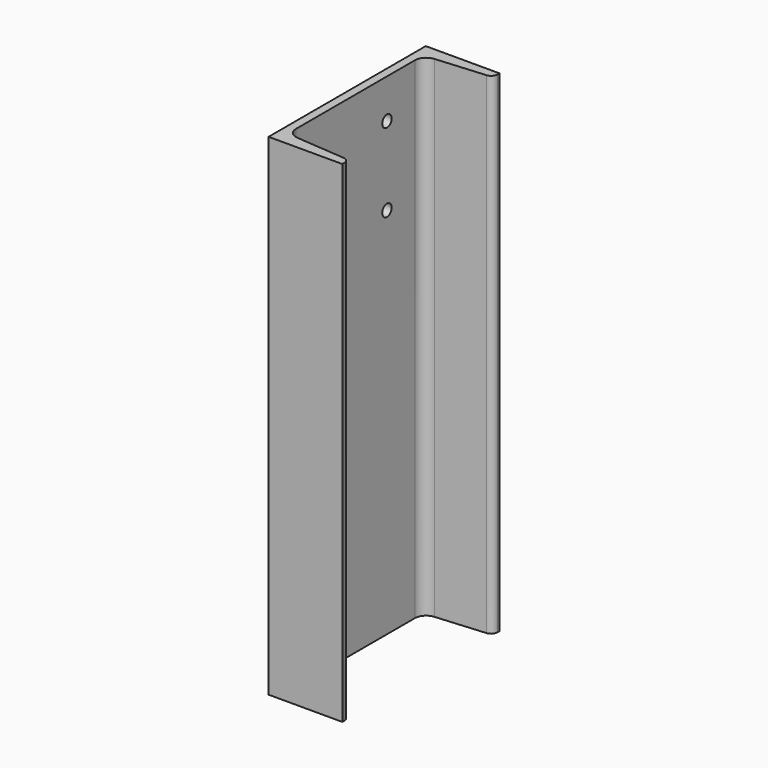
from build123d import *

# Parameters (mm, degrees)
F1_DEPTH = 250
F2_R     = 6
F3_DEPTH = 75.001


with BuildPart() as f1:
    # F0 (on Top) → F1 (new body, symmetric)
    with BuildSketch(Plane.XY):
        with BuildLine():
            Line((0, 100), (0, 0))
            Line((0, 0), (75, 0))
            Line((75, 0), (75, 2.499233))
            ThreePointArc((75, 2.499233), (73.275942, 6.908358), (69.018344, 8.978532))
            Line((69.018344, 8.978532), (19.08293, 12.973366))
            ThreePointArc((19.08293, 12.973366), (11.550257, 16.635982), (8.5, 24.436741))
            Line((8.5, 24.436741), (8.5, 100))
            Line((8.5, 100), (8.5, 175.563259))
            ThreePointArc((8.5, 175.563259), (11.550257, 183.364018), (19.08293, 187.026634))
            Line((19.08293, 187.026634), (69.018344, 191.021468))
            ThreePointArc((69.018344, 191.021468), (73.275942, 193.091642), (75, 197.500767))
            Line((75, 197.500767), (75, 200))
            Line((75, 200), (0, 200))
            Line((0, 200), (0, 100))
        make_face()
    extrude(amount=F1_DEPTH, both=True)

    # F2 (on face) → F3 (cut, through all)
    with BuildSketch(Plane(origin=(0, 0, 0), x_dir=(0, -1, 0), z_dir=(-1, 0, 0))):
        with Locations((-60, 210)):
            Circle(F2_R)
        with Locations((-140, 210)):
            Circle(F2_R)
        with Locations((-60, 130)):
            Circle(F2_R)
        with Locations((-140, 130)):
            Circle(F2_R)
    extrude(amount=-F3_DEPTH, mode=Mode.SUBTRACT)


solid = f1.part
